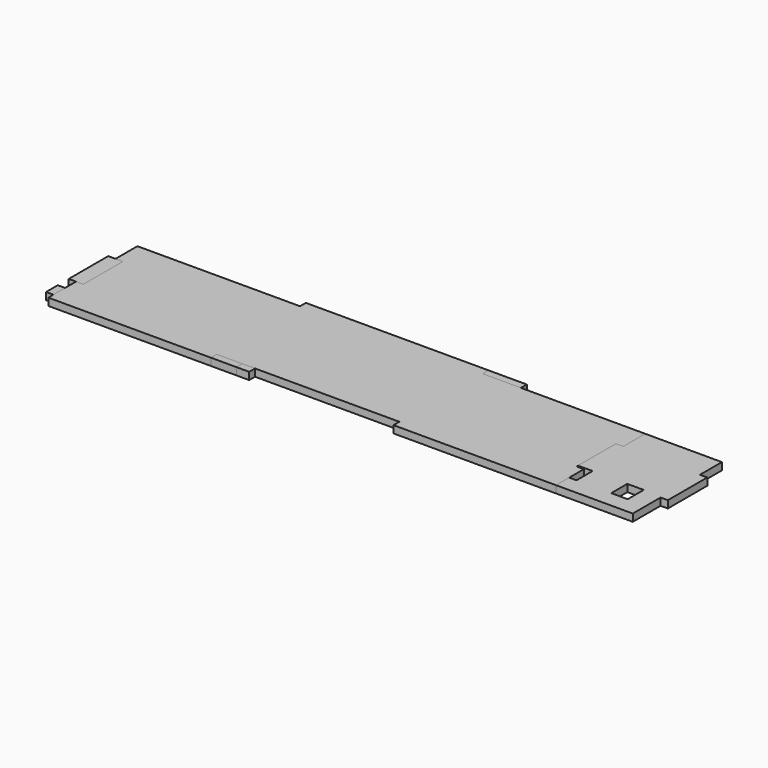
from build123d import *

# Parameters (mm, degrees)
BOX_W           = 278
BOX_H           = 61
BOX_DEPTH       = 4
SKETCH_W        = 100
SKETCH_H        = 4
POCKET_DEPTH    = 4
SKETCH001_W     = 100
SKETCH001_H     = 4
PAD_DEPTH       = 4
SKETCH002_W     = 27
SKETCH002_H     = 4
POCKET001_DEPTH = 4
SKETCH003_W     = 27
SKETCH003_H     = 4
POCKET002_DEPTH = 4
BOX001_W        = 320
BOX001_H        = 61
BOX001_DEPTH    = 4
SKETCH004_W     = 100
SKETCH004_H     = 4
POCKET003_DEPTH = 4
SKETCH005_W     = 100
SKETCH005_H     = 4
PAD001_DEPTH    = 4
SKETCH006_W     = 27
SKETCH006_H     = 4
PAD002_DEPTH    = 4
SKETCH007_W     = 27
SKETCH007_H     = 4
PAD003_DEPTH    = 4
SKETCH008_W     = 21
SKETCH008_H     = 13
SKETCH008_W_2   = 12
SKETCH008_H_2   = 11
SKETCH008_W_3   = 9
POCKET004_DEPTH = 5
BOX002_W        = 103
BOX002_H        = 15
BOX002_DEPTH    = 4
SKETCH009_W     = 8
SKETCH009_H     = 4
PAD004_DEPTH    = 4
BOX003_W        = 62
BOX003_H        = 15
BOX003_DEPTH    = 4
SKETCH010_W     = 8
SKETCH010_H     = 4
POCKET005_DEPTH = 4
SKETCH011_W     = 8
SKETCH011_H     = 4
POCKET006_DEPTH = 4
SKETCH012_W     = 27
SKETCH012_H     = 4
POCKET007_DEPTH = 4


with BuildPart() as pocket001:
    # Box → Box (new body)
    with BuildSketch(Plane.XY):
        with Locations((139, 30.5)):
            Rectangle(BOX_W, BOX_H)
    extrude(amount=BOX_DEPTH)

    # Sketch → Pocket (cut)
    with BuildSketch(Plane.XZ):
        with Locations((139, 2)):
            Rectangle(SKETCH_W, SKETCH_H)
    extrude(amount=-POCKET_DEPTH, mode=Mode.SUBTRACT)

    # Sketch001 → Pad (new body)
    with BuildSketch(Plane(origin=(0, 61, 0), x_dir=(-1, 0, 0), z_dir=(0, 1, 0))):
        with Locations((-139, 2)):
            Rectangle(SKETCH001_W, SKETCH001_H)
    extrude(amount=PAD_DEPTH)

    # Sketch002 → Pocket001 (cut)
    with BuildSketch(Plane.YZ.offset(278)):
        with Locations((32.5, 2)):
            Rectangle(SKETCH002_W, SKETCH002_H)
    extrude(amount=-POCKET001_DEPTH, mode=Mode.SUBTRACT)


with BuildPart() as obj1:
    # Pocket002 base: copy of Pocket001
    add(pocket001.part)

    # Sketch003 → Pocket002 (cut)
    with BuildSketch(Plane(origin=(0, 0, 0), x_dir=(0, -1, 0), z_dir=(-1, 0, 0))):
        with Locations((-32.5, 2)):
            Rectangle(SKETCH003_W, SKETCH003_H)
    extrude(amount=-POCKET002_DEPTH, mode=Mode.SUBTRACT)


with BuildPart() as pocket004:
    # Box001 → Box001 (new body)
    with BuildSketch(Plane.XY):
        with Locations((160, 30.5)):
            Rectangle(BOX001_W, BOX001_H)
    extrude(amount=BOX001_DEPTH)

    # Sketch004 → Pocket003 (cut)
    with BuildSketch(Plane.XZ):
        with Locations((160, 2)):
            Rectangle(SKETCH004_W, SKETCH004_H)
    extrude(amount=-POCKET003_DEPTH, mode=Mode.SUBTRACT)

    # Sketch005 → Pad001 (new body)
    with BuildSketch(Plane(origin=(0, 61, 0), x_dir=(-1, 0, 0), z_dir=(0, 1, 0))):
        with Locations((-160, 2)):
            Rectangle(SKETCH005_W, SKETCH005_H)
    extrude(amount=PAD001_DEPTH)

    # Sketch006 → Pad002 (new body)
    with BuildSketch(Plane(origin=(0, 0, 0), x_dir=(0, -1, 0), z_dir=(-1, 0, 0))):
        with Locations((-32.5, 2)):
            Rectangle(SKETCH006_W, SKETCH006_H)
    extrude(amount=PAD002_DEPTH)

    # Sketch007 → Pad003 (new body)
    with BuildSketch(Plane.YZ.offset(320)):
        with Locations((32.5, 2)):
            Rectangle(SKETCH007_W, SKETCH007_H)
    extrude(amount=PAD003_DEPTH)

    # Sketch008 → Pocket004 (cut)
    with BuildSketch(Plane.XY.offset(4)):
        with Locations((23.5, 15.5)):
            Rectangle(SKETCH008_W, SKETCH008_H)
        with Locations((276, 14.5)):
            Rectangle(SKETCH008_W_2, SKETCH008_H_2)
        with Locations((305.5, 14.5)):
            Rectangle(SKETCH008_W_3, SKETCH008_H_2)
    extrude(amount=-POCKET004_DEPTH, mode=Mode.SUBTRACT)


with BuildPart() as pad004:
    # Box002 → Box002 (new body)
    with BuildSketch(Plane.XY):
        with Locations((51.5, 7.5)):
            Rectangle(BOX002_W, BOX002_H)
    extrude(amount=BOX002_DEPTH)

    # Sketch009 → Pad004 (new body)
    with BuildSketch(Plane(origin=(0, 0, 0), x_dir=(0, -1, 0), z_dir=(-1, 0, 0))):
        with Locations((-7.5, 2)):
            Rectangle(SKETCH009_W, SKETCH009_H)
    extrude(amount=PAD004_DEPTH)


with BuildPart() as pocket006:
    # Box003 → Box003 (new body)
    with BuildSketch(Plane.XY):
        with Locations((31, 7.5)):
            Rectangle(BOX003_W, BOX003_H)
    extrude(amount=BOX003_DEPTH)

    # Sketch010 → Pocket005 (cut)
    with BuildSketch(Plane.YZ.offset(62)):
        with Locations((7.5, 2)):
            Rectangle(SKETCH010_W, SKETCH010_H)
    extrude(amount=-POCKET005_DEPTH, mode=Mode.SUBTRACT)

    # Sketch011 → Pocket006 (cut)
    with BuildSketch(Plane(origin=(0, 0, 0), x_dir=(0, -1, 0), z_dir=(-1, 0, 0))):
        with Locations((-7.5, 2)):
            Rectangle(SKETCH011_W, SKETCH011_H)
    extrude(amount=-POCKET006_DEPTH, mode=Mode.SUBTRACT)


with BuildPart() as obj2:
    # Pocket007 base: copy of Pocket001
    add(pocket001.part)

    # Sketch012 → Pocket007 (cut)
    with BuildSketch(Plane(origin=(0, 0, 0), x_dir=(0, -1, 0), z_dir=(-1, 0, 0))):
        with Locations((-32.5, 2)):
            Rectangle(SKETCH012_W, SKETCH012_H)
    extrude(amount=-POCKET007_DEPTH, mode=Mode.SUBTRACT)


solid = Compound([obj1.part, pocket004.part, pad004.part, pocket006.part, obj2.part])
